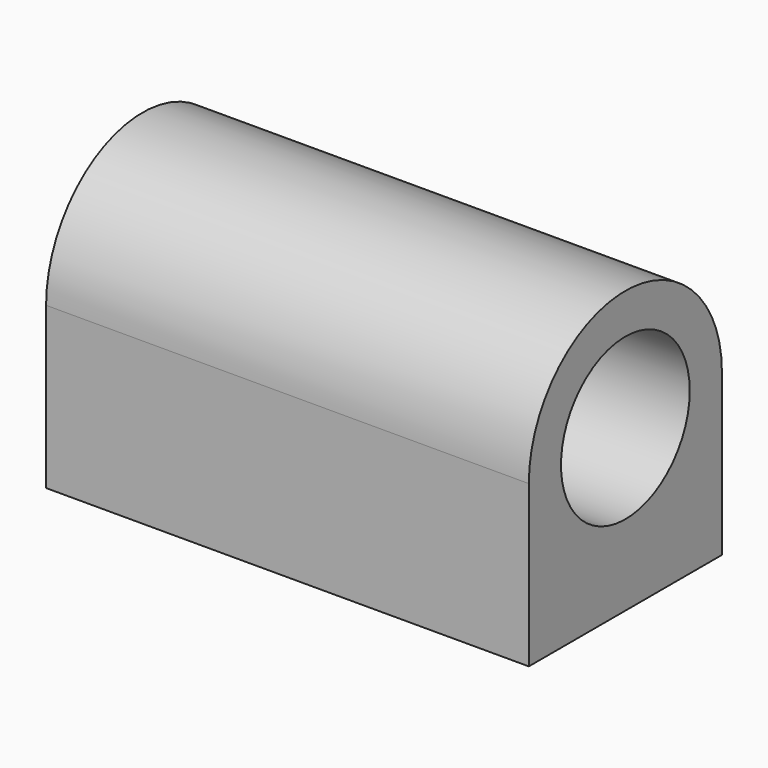
from build123d import *

# Parameters (mm, degrees)
F1_DEPTH = 38.1
F2_R     = 12.7
F3_DEPTH = 76.201
F5_D     = 3.302
F5_DEPTH = 12.7
F5_TIP   = 0.992020882


with BuildPart() as f1:
    # F0 (on Right) → F1 (new body, symmetric)
    with BuildSketch(Plane.YZ):
        with BuildLine():
            ThreePointArc((19.05, 0), (0, 19.05), (-19.05, 0))
            Line((-19.05, 0), (-19.05, -25.4))
            Line((-19.05, -25.4), (19.05, -25.4))
            Line((19.05, -25.4), (19.05, 0))
        make_face()
    extrude(amount=F1_DEPTH, both=True)

    # F2 (on face) → F3 (cut, through all)
    with BuildSketch(Plane.YZ.offset(38.1)):
        Circle(F2_R)
    extrude(amount=-F3_DEPTH, mode=Mode.SUBTRACT)

    # F5
    with Locations(Plane(origin=(0, 0, -25.4), x_dir=(1, 0, 0), z_dir=(0, 0, -1))):
        with Locations((-31.75, 12.7), (-31.75, -12.7), (31.75, -12.7), (31.75, 12.7)):
            Hole(F5_D / 2, depth=F5_DEPTH)
            with Locations((0, 0, -(F5_DEPTH + F5_TIP / 2))):  # 118° drill point
                Cone(0, F5_D / 2, F5_TIP, mode=Mode.SUBTRACT)


solid = f1.part
